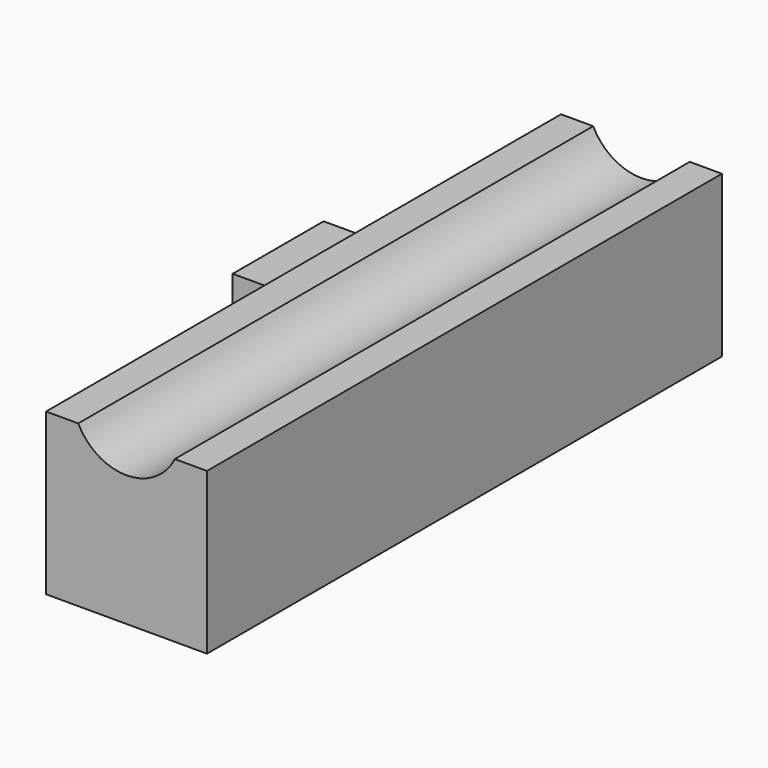
from build123d import *

# Parameters (mm, degrees)
F1_DEPTH = 152.4
F2_W     = 26.905142
F2_H     = 13.003318
F3_DEPTH = 25.4


with BuildPart() as f1:
    # F0 (on Front) → F1 (new body)
    with BuildSketch(Plane.XZ):
        with BuildLine():
            Line((7.62, 0), (0, 0))
            Line((0, 0), (0, -38.1))
            Line((0, -38.1), (38.1, -38.1))
            Line((38.1, -38.1), (38.1, 0))
            Line((38.1, 0), (30.48, 0))
            ThreePointArc((30.48, 0), (19.05, -7.108659), (7.62, 0))
        make_face()
    extrude(amount=-F1_DEPTH)

    # F2 (on face) → F3 (join)
    with BuildSketch(Plane(origin=(0, 0, 0), x_dir=(0, -1, 0), z_dir=(-1, 0, 0))):
        with Locations((-100.436237, -21.411889)):
            Rectangle(F2_W, F2_H)
    extrude(amount=F3_DEPTH)


solid = f1.part
